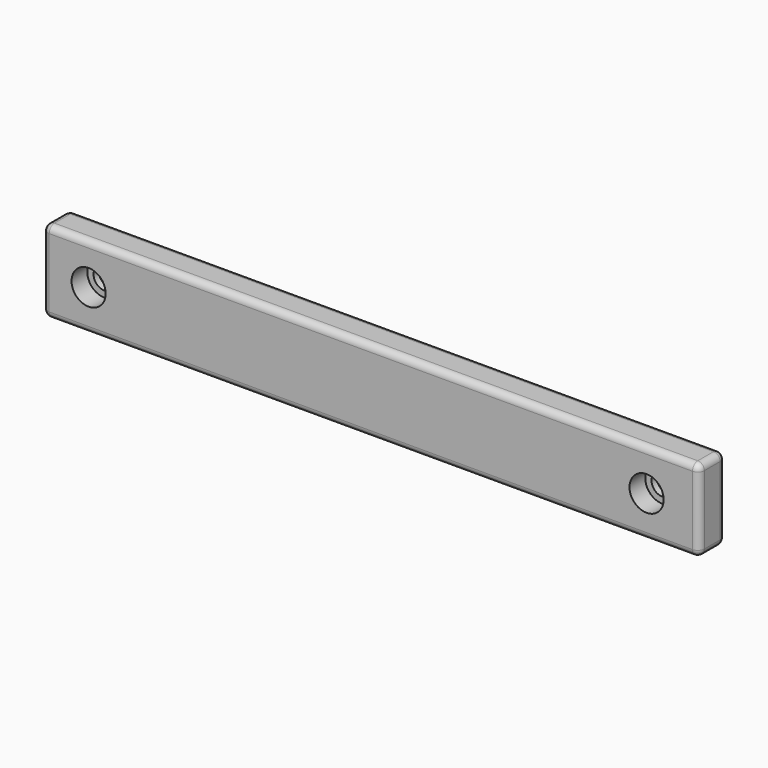
from build123d import *

# Parameters (mm, degrees)
CYLINDER051_R     = 5.2
CYLINDER051_DEPTH = 6
CYLINDER052_R     = 3.3
CYLINDER052_DEPTH = 20
CYLINDER053_R     = 3.3
CYLINDER053_DEPTH = 20
CYLINDER050_R     = 5.2
CYLINDER050_DEPTH = 6
CYLINDER049_R     = 8.1
CYLINDER049_DEPTH = 20
CYLINDER048_R     = 8.1
CYLINDER048_DEPTH = 20
BOX002_W          = 200
BOX002_H          = 10
BOX002_DEPTH      = 25
FILLET_R          = 2


with BuildPart() as zylinder051:
    # Cylinder051 → Cylinder051 (new body)
    with BuildSketch(Plane(origin=(250, -22, 40), x_dir=(1, 0, 0), z_dir=(0, -1, 0))):
        Circle(CYLINDER051_R)
    extrude(amount=CYLINDER051_DEPTH)


with BuildPart() as zylinder052:
    # Cylinder052 → Cylinder052 (new body)
    with BuildSketch(Plane(origin=(80, -10, 40), x_dir=(1, 0, 0), z_dir=(0, -1, 0))):
        Circle(CYLINDER052_R)
    extrude(amount=CYLINDER052_DEPTH)


with BuildPart() as zylinder053:
    # Cylinder053 → Cylinder053 (new body)
    with BuildSketch(Plane(origin=(250, -10, 40), x_dir=(1, 0, 0), z_dir=(0, -1, 0))):
        Circle(CYLINDER053_R)
    extrude(amount=CYLINDER053_DEPTH)


with BuildPart() as fusion009:
    # Cylinder050 → Cylinder050 (new body)
    with BuildSketch(Plane(origin=(80, -22, 40), x_dir=(1, 0, 0), z_dir=(0, -1, 0))):
        Circle(CYLINDER050_R)
    extrude(amount=CYLINDER050_DEPTH)

    # Fusion009: union Zylinder051, Zylinder052, Zylinder053
    add(zylinder051.part)
    add(zylinder052.part)
    add(zylinder053.part)


with BuildPart() as zylinder049:
    # Cylinder049 → Cylinder049 (new body)
    with BuildSketch(Plane(origin=(250, 0, 40), x_dir=(1, 0, 0), z_dir=(0, -1, 0))):
        Circle(CYLINDER049_R)
    extrude(amount=CYLINDER049_DEPTH)


with BuildPart() as zylinder048:
    # Cylinder048 → Cylinder048 (new body)
    with BuildSketch(Plane(origin=(80, 0, 40), x_dir=(1, 0, 0), z_dir=(0, -1, 0))):
        Circle(CYLINDER048_R)
    extrude(amount=CYLINDER048_DEPTH)


with BuildPart() as obj1:
    # Box002 → Box002 (new body)
    with BuildSketch(Plane(origin=(66, -28, 27.5), x_dir=(1, 0, 0), z_dir=(0, 0, 1))):
        with Locations((100, 5)):
            Rectangle(BOX002_W, BOX002_H)
    extrude(amount=BOX002_DEPTH)

    # Cut008: cut Zylinder048
    add(zylinder048.part, mode=Mode.SUBTRACT)

    # Cut009: cut Zylinder049
    add(zylinder049.part, mode=Mode.SUBTRACT)

    # Cut010: cut Fusion009
    add(fusion009.part, mode=Mode.SUBTRACT)

    # Fillet
    fillet_edges = [obj1.edges().sort_by_distance(p)[0] for p in [
        (66, -28, 40),
        (66, -23, 52.5),
        (66, -18, 40),
        (66, -23, 27.5),
        (166, -28, 27.5),
        (266, -28, 40),
        (166, -28, 52.5),
        (166, -18, 52.5),
        (266, -23, 52.5),
        (166, -18, 27.5),
        (266, -18, 40),
        (266, -23, 27.5),
    ]]
    fillet(fillet_edges, radius=FILLET_R)


with BuildPart() as obj1_1:
    # Fillet placement: moved
    add(obj1.part.moved(Location((0, -5, 0))))


solid = obj1_1.part
